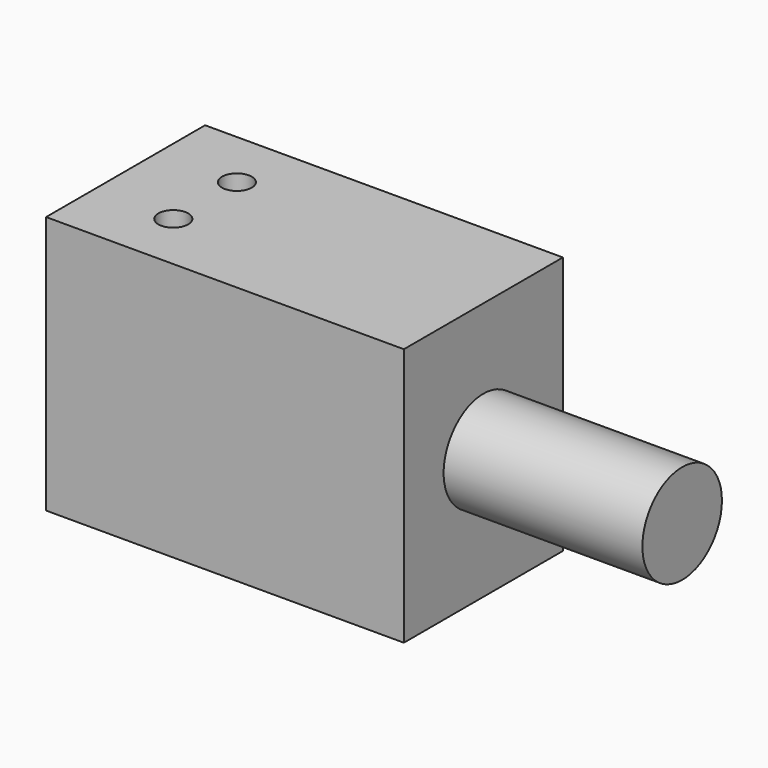
from build123d import *

# Parameters (mm, degrees)
SKETCH119_W     = 36
SKETCH119_H     = 20
PAD083_DEPTH    = 26
SKETCH120_R     = 5
PAD084_DEPTH    = 20
SKETCH137_R     = 1.5
POCKET108_DEPTH = 26.001


with BuildPart() as part:
    # Sketch119 → Pad083 (new body)
    with BuildSketch(Plane.XY):
        with Locations((-46, 0)):
            Rectangle(SKETCH119_W, SKETCH119_H)
    extrude(amount=PAD083_DEPTH)

    # Sketch120 (on Face2 of Pad083) → Pad084 (join)
    with BuildSketch(Plane.YZ.offset(-28)):
        with Locations((0, 13)):
            Circle(SKETCH120_R)
    extrude(amount=PAD084_DEPTH)

    # Sketch137 (on Face5 of Pad084) → Pocket108 (cut, through all)
    with BuildSketch(Plane.XY.offset(26)):
        with Locations((-56, 4)):
            Circle(SKETCH137_R)
        with Locations((-56, -4)):
            Circle(SKETCH137_R)
    extrude(amount=-POCKET108_DEPTH, mode=Mode.SUBTRACT)


with BuildPart() as part_1:
    # Body049 placement: moved
    add(part.part.moved(Location((-1, 0, -15))))


solid = part_1.part
